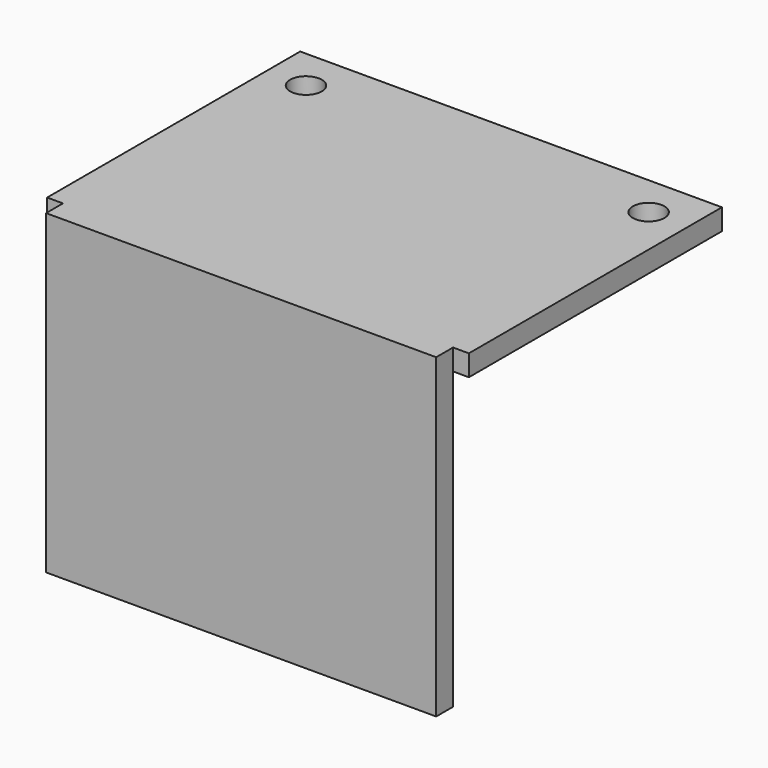
from build123d import *

# Parameters (mm, degrees)
F0_W     = 50.8
F0_H     = 38.1
F1_DEPTH = 2.54
F2_W     = 46.99
F2_H     = 38.1
F3_DEPTH = 2.54
F4_R     = 1.905
F5_DEPTH = 38.101


with BuildPart() as f1:
    # F0 (on Top) → F1 (new body)
    with BuildSketch(Plane.XY):
        Rectangle(F0_W, F0_H)
    extrude(amount=F1_DEPTH)

    # F2 (on face) → F3 (join)
    with BuildSketch(Plane.XZ.offset(19.05)):
        with Locations((0, -16.51)):
            Rectangle(F2_W, F2_H)
    extrude(amount=F3_DEPTH)

    # F4 (on face) → F5 (cut, through all)
    with BuildSketch(Plane.XY.offset(2.54)):
        with Locations((20.6375, 13.97)):
            Circle(F4_R)
        with Locations((-20.6375, 13.97)):
            Circle(F4_R)
    extrude(amount=-F5_DEPTH, mode=Mode.SUBTRACT)


solid = f1.part
